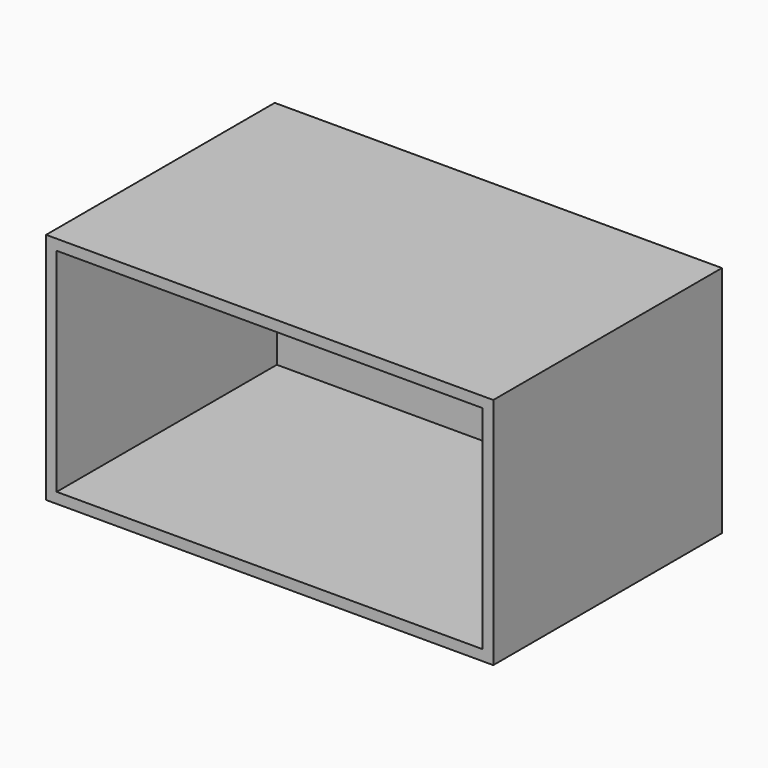
from build123d import *

# Parameters (mm, degrees)
F0_W     = 101.9676290452
F0_H     = 65.8728964627
F1_DEPTH = 25.4
F2_T     = 2.54


with BuildPart() as f1:
    # F0 (on Top) → F1 (new body, symmetric)
    with BuildSketch(Plane.XY):
        with Locations((2.857496962, -0.4511829466)):
            Rectangle(F0_W, F0_H)
    extrude(amount=F1_DEPTH, both=True)

    # F2
    f2_openings = [f1.faces().sort_by_distance(p)[0] for p in [
        (2.857497, -33.387631, 0),
    ]]
    offset(amount=F2_T, openings=f2_openings, kind=Kind.INTERSECTION)


solid = f1.part
